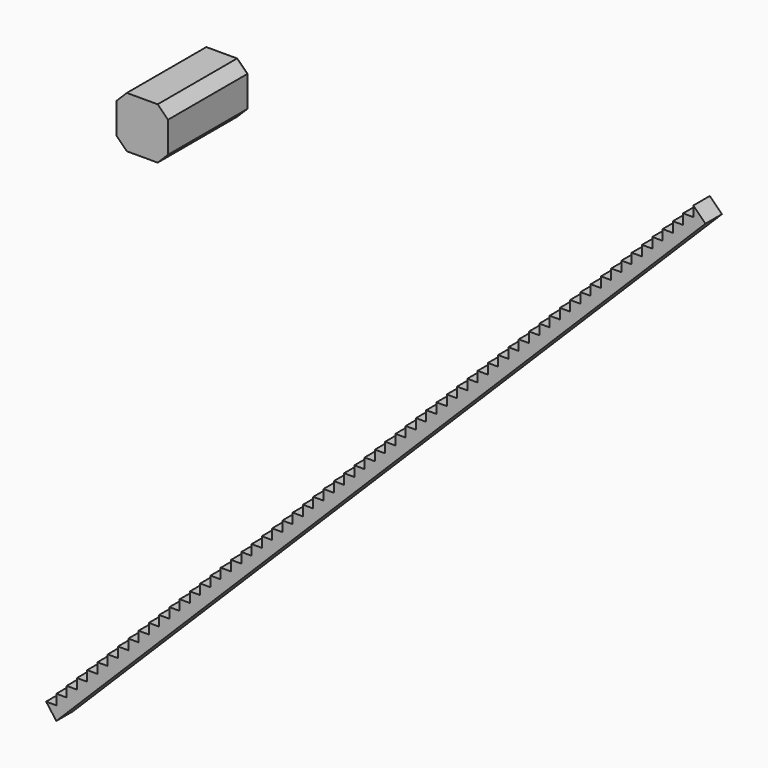
from build123d import *

# Parameters (mm, degrees)
F1_DEPTH = 60
F2_W     = 150
F2_H     = 150
F3_DEPTH = 300
F4_SIZE  = 30
F5_SIZE  = 10


with BuildPart() as f1:
    # F0 (on Front) → F1 (new body)
    with BuildSketch(Plane.XZ):
        Polygon((2764.9939799309, -330.0551319122), (2734.9939799309, -330.0551319122), (2734.9939799309, -360.0551319122), (2704.9939799309, -360.0551319122), (2704.9939799309, -390.0551319122), (2674.9939799309, -390.0551319122), (2674.9939799309, -420.0551319122), (2644.9939799309, -420.0551319122), (2644.9939799309, -450.0551319122), (2614.9939799309, -450.0551319122), (2614.9939799309, -480.0551319122), (2584.9939799309, -480.0551319122), (2584.9939799309, -510.0551319122), (2554.9939799309, -510.0551319122), (2554.9939799309, -540.0551319122), (2524.9939799309, -540.0551319122), (2524.9939799309, -570.0551319122), (2494.9939799309, -570.0551319122), (2494.9939799309, -600.0551319122), (2464.9939799309, -600.0551319122), (2464.9939799309, -630.0551319122), (2434.9939799309, -630.0551319122), (2434.9939799309, -660.0551319122), (2404.9939799309, -660.0551319122), (2404.9939799309, -690.0551319122), (2374.9939799309, -690.0551319122), (2374.9939799309, -720.0551319122), (2344.9939799309, -720.0551319122), (2344.9939799309, -750.0551319122), (2314.9939799309, -750.0551319122), (2314.9939799309, -780.0551319122), (2284.9939799309, -780.0551319122), (2284.9939799309, -810.0551319122), (2254.9939799309, -810.0551319122), (2254.9939799309, -840.0551319122), (2224.9939799309, -840.0551319122), (2224.9939799309, -870.0551319122), (2194.9939799309, -870.0551319122), (2194.9939799309, -900.0551319122), (2164.9939799309, -900.0551319122), (2164.9939799309, -930.0551319122), (2134.9939799309, -930.0551319122), (2134.9939799309, -960.0551319122), (2104.9939799309, -960.0551319122), (2104.9939799309, -990.0551319122), (2074.9939799309, -990.0551319122), (2074.9939799309, -1020.0551319122), (2044.9939799309, -1020.0551319122), (2044.9939799309, -1050.0551319122), (2014.9939799309, -1050.0551319122), (2014.9939799309, -1080.0551319122), (1984.9939799309, -1080.0551319122), (1984.9939799309, -1110.0551319122), (1954.9939799309, -1110.0551319122), (1954.9939799309, -1140.0551319122), (1924.9939799309, -1140.0551319122), (1924.9939799309, -1170.0551319122), (1894.9939799309, -1170.0551319122), (1894.9939799309, -1200.0551319122), (1864.9939799309, -1200.0551319122), (1864.9939799309, -1230.0551319122), (1834.9939799309, -1230.0551319122), (1834.9939799309, -1260.0551319122), (1804.9939799309, -1260.0551319122), (1804.9939799309, -1290.0551319122), (1774.9939799309, -1290.0551319122), (1774.9939799309, -1320.0551319122), (1744.9939799309, -1320.0551319122), (1744.9939799309, -1350.0551319122), (1714.9939799309, -1350.0551319122), (1714.9939799309, -1380.0551319122), (1684.9939799309, -1380.0551319122), (1684.9939799309, -1410.0551319122), (1654.9939799309, -1410.0551319122), (1654.9939799309, -1440.0551319122), (1624.9939799309, -1440.0551319122), (1624.9939799309, -1470.0551319122), (1594.9939799309, -1470.0551319122), (1594.9939799309, -1500.0551319122), (1564.9939799309, -1500.0551319122), (1564.9939799309, -1530.0551319122), (1534.9939799309, -1530.0551319122), (1534.9939799309, -1560.0551319122), (1504.9939799309, -1560.0551319122), (1504.9939799309, -1590.0551319122), (1474.9939799309, -1590.0551319122), (1474.9939799309, -1620.0551319122), (1444.9939799309, -1620.0551319122), (1444.9939799309, -1650.0551319122), (1414.9939799309, -1650.0551319122), (1414.9939799309, -1680.0551319122), (1384.9939799309, -1680.0551319122), (1384.9939799309, -1710.0551319122), (1354.9939799309, -1710.0551319122), (1354.9939799309, -1740.0551319122), (1324.9939799309, -1740.0551319122), (1324.9939799309, -1770.0551319122), (1294.9939799309, -1770.0551319122), (1294.9939799309, -1800.0551319122), (1264.9939799309, -1800.0551319122), (1264.9939799309, -1830.0551319122), (1234.9939799309, -1830.0551319122), (1234.9939799309, -1860.0551319122), (1204.9939799309, -1860.0551319122), (1204.9939799309, -1890.0551319122), (1174.9939799309, -1890.0551319122), (1174.9939799309, -1920.0551319122), (1144.9939799309, -1920.0551319122), (1144.9939799309, -1950.0551319122), (1114.9939799309, -1950.0551319122), (1114.9939799309, -1980.0551319122), (1084.9939799309, -1980.0551319122), (1084.9939799309, -2010.0551319122), (1054.9939799309, -2010.0551319122), (1054.9939799309, -2040.0551319122), (1024.9939799309, -2040.0551319122), (1024.9939799309, -2070.0551319122), (994.9939799309, -2070.0551319122), (994.9939799309, -2100.0551319122), (964.9939799309, -2100.0551319122), (964.9939799309, -2130.0551319122), (934.9939799309, -2130.0551319122), (934.9939799309, -2160.0551319122), (904.9939799309, -2160.0551319122), (904.9939799309, -2190.0551319122), (874.9939799309, -2190.0551319122), (904.9939799309, -2230.0551319122), (2800.3493189902, -335.4104709716), (2764.9939799309, -300.0551319122), align=None)
    extrude(amount=F1_DEPTH)


with BuildPart() as f3:
    # F2 (on face) → F3 (new body)
    with BuildSketch(Plane(origin=(0, 0, 0), x_dir=(-1, 0, 0), z_dir=(0, 1, 0))):
        with Locations((-1107.8245520592, -663.7402057648)):
            Rectangle(F2_W, F2_H)
    extrude(amount=F3_DEPTH)

    # F4
    f4_edges = [f3.edges().sort_by_distance(p)[0] for p in [
        (1182.824552, 150, -588.740206),
        (1032.824552, 150, -588.740206),
        (1182.824552, 150, -738.740206),
        (1032.824552, 150, -738.740206),
    ]]
    chamfer(f4_edges, length=F4_SIZE)

    # F5
    f5_edges = [f3.edges().sort_by_distance(p)[0] for p in [
        (1107.824552, 300, -588.740206),
        (1032.824552, 300, -663.740206),
        (1107.824552, 300, -738.740206),
        (1182.824552, 300, -663.740206),
        (1047.824552, 300, -603.740206),
        (1167.824552, 300, -603.740206),
        (1167.824552, 300, -723.740206),
        (1047.824552, 300, -723.740206),
    ]]
    chamfer(f5_edges, length=F5_SIZE)


solid = Compound([f1.part, f3.part])
